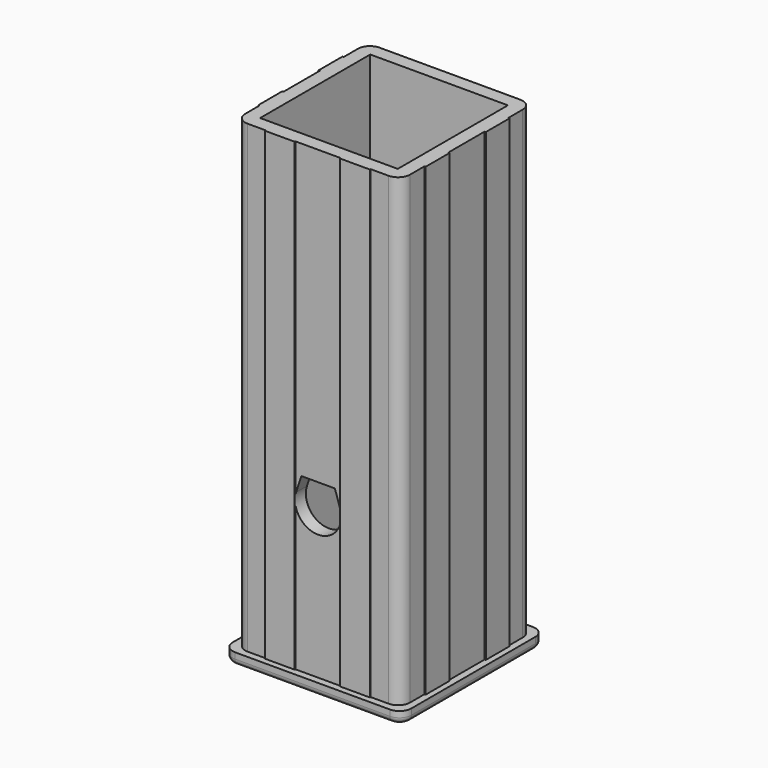
from build123d import *

# Parameters (mm, degrees)
F0_W     = 46.2
F0_H     = 46.2
F1_DEPTH = 156
F0_W_2   = 60
F0_H_2   = 60
F2_DEPTH = 4
F3_R     = 4
F4_R     = 2
F7_DEPTH = 80


with BuildPart() as f1:
    # F0 (on Top) → F1 (new body)
    with BuildSketch(Plane.XY):
        Polygon((27.65, 17.65), (27.65, 27.65), (-27.65, 27.65), (-27.65, 17.65), (-28.05, 17.65), (-28.05, 7.65), (-27.65, 7.65), (-27.65, -7.65), (-28.05, -7.65), (-28.05, -17.65), (-27.65, -17.65), (-27.65, -27.65), (-17.65, -27.65), (-17.65, -27.95), (-7.65, -27.95), (-7.65, -27.65), (7.65, -27.65), (7.65, -27.95), (17.65, -27.95), (17.65, -27.65), (27.65, -27.65), (27.65, -17.65), (28.05, -17.65), (28.05, -7.65), (27.65, -7.65), (27.65, 7.65), (28.05, 7.65), (28.05, 17.65), align=None)
        Rectangle(F0_W, F0_H, mode=Mode.SUBTRACT)
    extrude(amount=F1_DEPTH)

    # F0 (on Top) → F2 (join)
    with BuildSketch(Plane.XY):
        Rectangle(F0_W_2, F0_H_2)
        Polygon((-27.65, 27.65), (27.65, 27.65), (27.65, 17.65), (28.05, 17.65), (28.05, 7.65), (27.65, 7.65), (27.65, -7.65), (28.05, -7.65), (28.05, -17.65), (27.65, -17.65), (27.65, -27.65), (17.65, -27.65), (17.65, -27.95), (7.65, -27.95), (7.65, -27.65), (-7.65, -27.65), (-7.65, -27.95), (-17.65, -27.95), (-17.65, -27.65), (-27.65, -27.65), (-27.65, -17.65), (-28.05, -17.65), (-28.05, -7.65), (-27.65, -7.65), (-27.65, 7.65), (-28.05, 7.65), (-28.05, 17.65), (-27.65, 17.65), align=None, mode=Mode.SUBTRACT)
        Polygon((27.65, 17.65), (27.65, 27.65), (-27.65, 27.65), (-27.65, 17.65), (-28.05, 17.65), (-28.05, 7.65), (-27.65, 7.65), (-27.65, -7.65), (-28.05, -7.65), (-28.05, -17.65), (-27.65, -17.65), (-27.65, -27.65), (-17.65, -27.65), (-17.65, -27.95), (-7.65, -27.95), (-7.65, -27.65), (7.65, -27.65), (7.65, -27.95), (17.65, -27.95), (17.65, -27.65), (27.65, -27.65), (27.65, -17.65), (28.05, -17.65), (28.05, -7.65), (27.65, -7.65), (27.65, 7.65), (28.05, 7.65), (28.05, 17.65), align=None)
        Rectangle(F0_W, F0_H, mode=Mode.SUBTRACT)
    extrude(amount=-F2_DEPTH)

    # F3
    f3_edges = [f1.edges().sort_by_distance(p)[0] for p in [
        (-27.65, 27.65, 78),
        (-27.65, -27.65, 78),
        (27.65, -27.65, 78),
        (27.65, 27.65, 78),
        (30, 30, -2),
        (30, -30, -2),
        (-30, 30, -2),
        (-30, -30, -2),
    ]]
    fillet(f3_edges, radius=F3_R)

    # F4
    f4_edges = [f1.edges().sort_by_distance(p)[0] for p in [
        (30, 0, -4),
    ]]
    fillet(f4_edges, radius=F4_R)

    # F6 (on offset) → F7 (cut)
    with BuildSketch(Plane.XZ.offset(27.65)):
        with BuildLine():
            Line((-5.630705, 57.75), (-7.370688, 52.394882))
            ThreePointArc((-7.370688, 52.394882), (0, 42.25), (7.370688, 52.394882))
            Line((7.370688, 52.394882), (5.630705, 57.75))
            Line((5.630705, 57.75), (-5.630705, 57.75))
        make_face()
    extrude(amount=-F7_DEPTH, mode=Mode.SUBTRACT)


solid = f1.part
